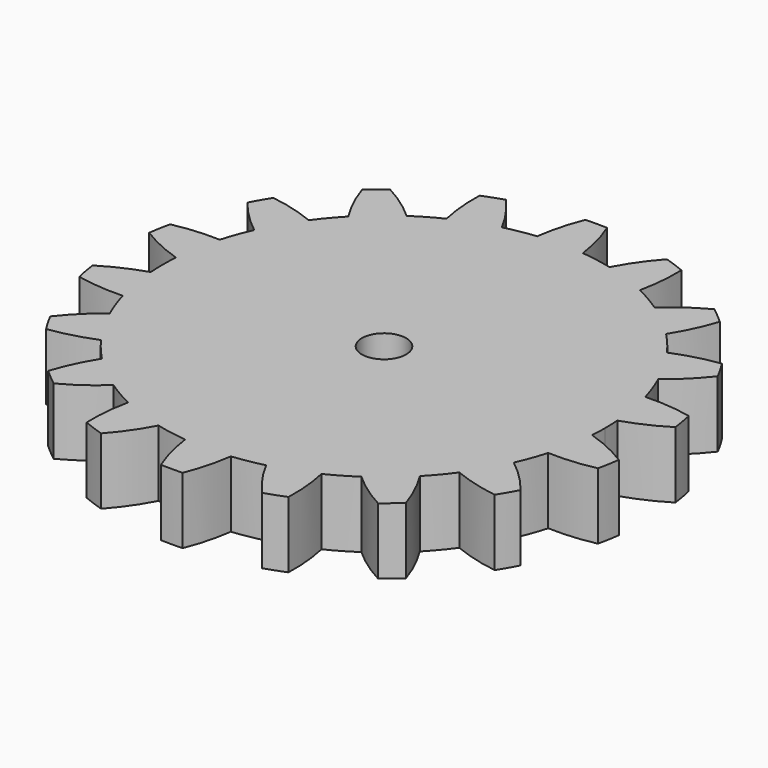
from build123d import *

# Parameters (mm, degrees)
F0_R     = 6.35
F1_DEPTH = 19.05


with BuildPart() as f1:
    # F0 (on Top) → F1 (new body)
    with BuildSketch(Plane.XY):
        with BuildLine():
            ThreePointArc((61.064257, 17.418569), (62.535292, 11.026659), (63.339133, 4.517105))
            ThreePointArc((63.339133, 4.517105), (69.605701, 6.955225), (75.520491, 10.153593))
            ThreePointArc((75.520491, 10.153593), (75.042351, 13.231991), (74.438781, 16.288273))
            ThreePointArc((74.438781, 16.288273), (67.78679, 17.270778), (61.064257, 17.418569))
        make_face()
        with BuildLine():
            ThreePointArc((51.42413, 37.253307), (54.992613, 31.75), (57.974375, 25.90795))
            ThreePointArc((57.974375, 25.90795), (63.029136, 30.342325), (67.493315, 35.370785))
            ThreePointArc((67.493315, 35.370785), (65.991136, 38.1), (64.378656, 40.765533))
            ThreePointArc((64.378656, 40.765533), (57.791793, 39.413671), (51.42413, 37.253307))
        make_face()
        with BuildLine():
            ThreePointArc((35.581494, 52.594746), (40.817013, 48.643822), (45.617052, 44.173913))
            ThreePointArc((45.617052, 44.173913), (48.850328, 50.069693), (51.325449, 56.321739))
            ThreePointArc((51.325449, 56.321739), (48.980416, 58.372587), (46.553515, 60.325867))
            ThreePointArc((46.553515, 60.325867), (40.826252, 56.802693), (35.581494, 52.594746))
        make_face()
        with BuildLine():
            ThreePointArc((15.447205, 61.592482), (21.718279, 59.670481), (27.757639, 57.111851))
            ThreePointArc((27.757639, 57.111851), (28.779449, 63.757918), (28.966976, 70.47946))
            ThreePointArc((28.966976, 70.47946), (26.061935, 71.604578), (23.113332, 72.610012))
            ThreePointArc((23.113332, 72.610012), (18.936463, 67.340472), (15.447205, 61.592482))
        make_face()
        with BuildLine():
            ThreePointArc((-6.550245, 63.161256), (0, 63.5), (6.550245, 63.161256))
            ThreePointArc((6.550245, 63.161256), (5.237344, 69.755996), (3.114659, 76.136318))
            ThreePointArc((3.114659, 76.136318), (0, 76.2), (-3.114659, 76.136318))
            ThreePointArc((-3.114659, 76.136318), (-5.237344, 69.755996), (-6.550245, 63.161256))
        make_face()
        with BuildLine():
            ThreePointArc((-27.757639, 57.111851), (-21.718279, 59.670481), (-15.447205, 61.592482))
            ThreePointArc((-15.447205, 61.592482), (-18.936463, 67.340472), (-23.113332, 72.610012))
            ThreePointArc((-23.113332, 72.610012), (-26.061935, 71.604578), (-28.966976, 70.47946))
            ThreePointArc((-28.966976, 70.47946), (-28.779449, 63.757918), (-27.757639, 57.111851))
        make_face()
        with BuildLine():
            ThreePointArc((-45.617052, 44.173913), (-40.817013, 48.643822), (-35.581494, 52.594746))
            ThreePointArc((-35.581494, 52.594746), (-40.826252, 56.802693), (-46.553515, 60.325867))
            ThreePointArc((-46.553515, 60.325867), (-48.980416, 58.372587), (-51.325449, 56.321739))
            ThreePointArc((-51.325449, 56.321739), (-48.850328, 50.069693), (-45.617052, 44.173913))
        make_face()
        with BuildLine():
            ThreePointArc((-57.974375, 25.90795), (-54.992613, 31.75), (-51.42413, 37.253307))
            ThreePointArc((-51.42413, 37.253307), (-57.791793, 39.413671), (-64.378656, 40.765533))
            ThreePointArc((-64.378656, 40.765533), (-65.991136, 38.1), (-67.493315, 35.370785))
            ThreePointArc((-67.493315, 35.370785), (-63.029136, 30.342325), (-57.974375, 25.90795))
        make_face()
        with BuildLine():
            ThreePointArc((-63.339133, 4.517105), (-62.535292, 11.026659), (-61.064257, 17.418569))
            ThreePointArc((-61.064257, 17.418569), (-67.78679, 17.270778), (-74.438781, 16.288273))
            ThreePointArc((-74.438781, 16.288273), (-75.042351, 13.231991), (-75.520491, 10.153593))
            ThreePointArc((-75.520491, 10.153593), (-69.605701, 6.955225), (-63.339133, 4.517105))
        make_face()
        with BuildLine():
            ThreePointArc((-74.438781, -16.288273), (-67.78679, -17.270778), (-61.064257, -17.418569))
            ThreePointArc((-61.064257, -17.418569), (-62.535292, -11.026659), (-63.339133, -4.517105))
            ThreePointArc((-63.339133, -4.517105), (-69.605701, -6.955225), (-75.520491, -10.153593))
            ThreePointArc((-75.520491, -10.153593), (-75.042351, -13.231991), (-74.438781, -16.288273))
        make_face()
        with BuildLine():
            ThreePointArc((-64.378656, -40.765533), (-57.791793, -39.413671), (-51.42413, -37.253307))
            ThreePointArc((-51.42413, -37.253307), (-54.992613, -31.75), (-57.974375, -25.90795))
            ThreePointArc((-57.974375, -25.90795), (-63.029136, -30.342325), (-67.493315, -35.370785))
            ThreePointArc((-67.493315, -35.370785), (-65.991136, -38.1), (-64.378656, -40.765533))
        make_face()
        with BuildLine():
            ThreePointArc((-46.553515, -60.325867), (-40.826252, -56.802693), (-35.581494, -52.594746))
            ThreePointArc((-35.581494, -52.594746), (-40.817013, -48.643822), (-45.617052, -44.173913))
            ThreePointArc((-45.617052, -44.173913), (-48.850328, -50.069693), (-51.325449, -56.321739))
            ThreePointArc((-51.325449, -56.321739), (-48.980416, -58.372587), (-46.553515, -60.325867))
        make_face()
        with BuildLine():
            ThreePointArc((-23.113332, -72.610012), (-18.936463, -67.340472), (-15.447205, -61.592482))
            ThreePointArc((-15.447205, -61.592482), (-21.718279, -59.670481), (-27.757639, -57.111851))
            ThreePointArc((-27.757639, -57.111851), (-28.779449, -63.757918), (-28.966976, -70.47946))
            ThreePointArc((-28.966976, -70.47946), (-26.061935, -71.604578), (-23.113332, -72.610012))
        make_face()
        with BuildLine():
            ThreePointArc((3.114659, -76.136318), (5.237344, -69.755996), (6.550245, -63.161256))
            ThreePointArc((6.550245, -63.161256), (0, -63.5), (-6.550245, -63.161256))
            ThreePointArc((-6.550245, -63.161256), (-5.237344, -69.755996), (-3.114659, -76.136318))
            ThreePointArc((-3.114659, -76.136318), (0, -76.2), (3.114659, -76.136318))
        make_face()
        with BuildLine():
            ThreePointArc((28.966976, -70.47946), (28.779449, -63.757918), (27.757639, -57.111851))
            ThreePointArc((27.757639, -57.111851), (21.718279, -59.670481), (15.447205, -61.592482))
            ThreePointArc((15.447205, -61.592482), (18.936463, -67.340472), (23.113332, -72.610012))
            ThreePointArc((23.113332, -72.610012), (26.061935, -71.604578), (28.966976, -70.47946))
        make_face()
        with BuildLine():
            ThreePointArc((51.325449, -56.321739), (48.850328, -50.069693), (45.617052, -44.173913))
            ThreePointArc((45.617052, -44.173913), (40.817013, -48.643822), (35.581494, -52.594746))
            ThreePointArc((35.581494, -52.594746), (40.826252, -56.802693), (46.553515, -60.325867))
            ThreePointArc((46.553515, -60.325867), (48.980416, -58.372587), (51.325449, -56.321739))
        make_face()
        with BuildLine():
            ThreePointArc((67.493315, -35.370785), (63.029136, -30.342325), (57.974375, -25.90795))
            ThreePointArc((57.974375, -25.90795), (54.992613, -31.75), (51.42413, -37.253307))
            ThreePointArc((51.42413, -37.253307), (57.791793, -39.413671), (64.378656, -40.765533))
            ThreePointArc((64.378656, -40.765533), (65.991136, -38.1), (67.493315, -35.370785))
        make_face()
        with BuildLine():
            ThreePointArc((75.520491, -10.153593), (69.605701, -6.955225), (63.339133, -4.517105))
            ThreePointArc((63.339133, -4.517105), (62.535292, -11.026659), (61.064257, -17.418569))
            ThreePointArc((61.064257, -17.418569), (67.78679, -17.270778), (74.438781, -16.288273))
            ThreePointArc((74.438781, -16.288273), (75.042351, -13.231991), (75.520491, -10.153593))
        make_face()
        with BuildLine():
            ThreePointArc((63.339133, -4.517105), (63.45977, -2.259984), (63.5, 0))
            ThreePointArc((63.5, 0), (63.45977, 2.259984), (63.339133, 4.517105))
            ThreePointArc((63.339133, 4.517105), (62.535292, 11.026659), (61.064257, 17.418569))
            ThreePointArc((61.064257, 17.418569), (59.670481, 21.718279), (57.974375, 25.90795))
            ThreePointArc((57.974375, 25.90795), (54.992613, 31.75), (51.42413, 37.253307))
            ThreePointArc((51.42413, 37.253307), (48.643822, 40.817013), (45.617052, 44.173913))
            ThreePointArc((45.617052, 44.173913), (40.817013, 48.643822), (35.581494, 52.594746))
            ThreePointArc((35.581494, 52.594746), (31.75, 54.992613), (27.757639, 57.111851))
            ThreePointArc((27.757639, 57.111851), (21.718279, 59.670481), (15.447205, 61.592482))
            ThreePointArc((15.447205, 61.592482), (11.026659, 62.535292), (6.550245, 63.161256))
            ThreePointArc((6.550245, 63.161256), (0, 63.5), (-6.550245, 63.161256))
            ThreePointArc((-6.550245, 63.161256), (-11.026659, 62.535292), (-15.447205, 61.592482))
            ThreePointArc((-15.447205, 61.592482), (-21.718279, 59.670481), (-27.757639, 57.111851))
            ThreePointArc((-27.757639, 57.111851), (-31.75, 54.992613), (-35.581494, 52.594746))
            ThreePointArc((-35.581494, 52.594746), (-40.817013, 48.643822), (-45.617052, 44.173913))
            ThreePointArc((-45.617052, 44.173913), (-48.643822, 40.817013), (-51.42413, 37.253307))
            ThreePointArc((-51.42413, 37.253307), (-54.992613, 31.75), (-57.974375, 25.90795))
            ThreePointArc((-57.974375, 25.90795), (-59.670481, 21.718279), (-61.064257, 17.418569))
            ThreePointArc((-61.064257, 17.418569), (-62.535292, 11.026659), (-63.339133, 4.517105))
            ThreePointArc((-63.339133, 4.517105), (-63.5, 0), (-63.339133, -4.517105))
            ThreePointArc((-63.339133, -4.517105), (-62.535292, -11.026659), (-61.064257, -17.418569))
            ThreePointArc((-61.064257, -17.418569), (-59.670481, -21.718279), (-57.974375, -25.90795))
            ThreePointArc((-57.974375, -25.90795), (-54.992613, -31.75), (-51.42413, -37.253307))
            ThreePointArc((-51.42413, -37.253307), (-48.643822, -40.817013), (-45.617052, -44.173913))
            ThreePointArc((-45.617052, -44.173913), (-40.817013, -48.643822), (-35.581494, -52.594746))
            ThreePointArc((-35.581494, -52.594746), (-31.75, -54.992613), (-27.757639, -57.111851))
            ThreePointArc((-27.757639, -57.111851), (-21.718279, -59.670481), (-15.447205, -61.592482))
            ThreePointArc((-15.447205, -61.592482), (-11.026659, -62.535292), (-6.550245, -63.161256))
            ThreePointArc((-6.550245, -63.161256), (0, -63.5), (6.550245, -63.161256))
            ThreePointArc((6.550245, -63.161256), (11.026659, -62.535292), (15.447205, -61.592482))
            ThreePointArc((15.447205, -61.592482), (21.718279, -59.670481), (27.757639, -57.111851))
            ThreePointArc((27.757639, -57.111851), (31.75, -54.992613), (35.581494, -52.594746))
            ThreePointArc((35.581494, -52.594746), (40.817013, -48.643822), (45.617052, -44.173913))
            ThreePointArc((45.617052, -44.173913), (48.643822, -40.817013), (51.42413, -37.253307))
            ThreePointArc((51.42413, -37.253307), (54.992613, -31.75), (57.974375, -25.90795))
            ThreePointArc((57.974375, -25.90795), (59.670481, -21.718279), (61.064257, -17.418569))
            ThreePointArc((61.064257, -17.418569), (62.535292, -11.026659), (63.339133, -4.517105))
        make_face()
        Circle(F0_R, mode=Mode.SUBTRACT)
    extrude(amount=F1_DEPTH)


solid = f1.part
